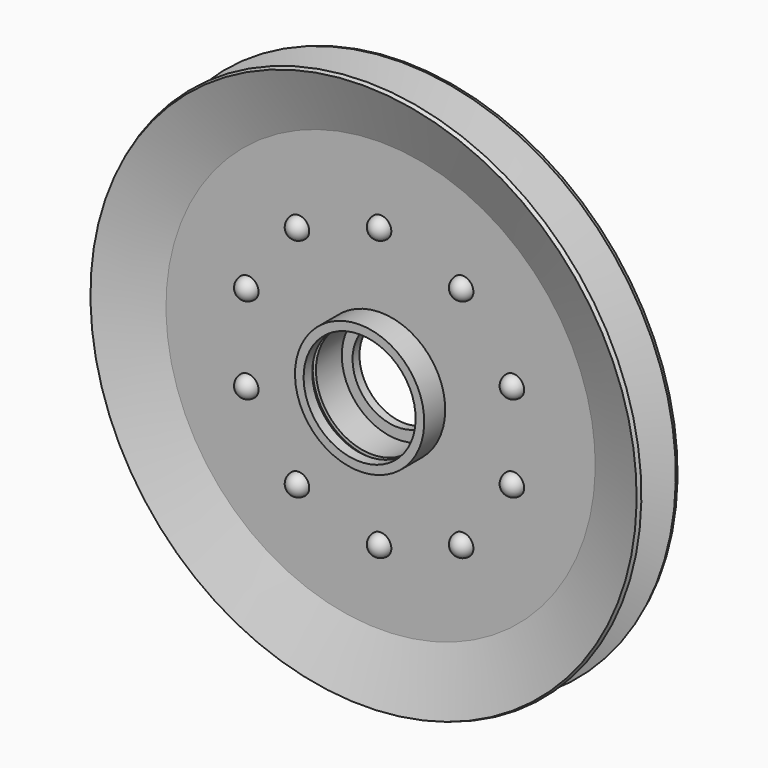
from build123d import *

# Parameters (mm, degrees)
F3_D     = 60
F4_R     = 3
F5_DEPTH = 2.001
F9_COUNT = 10


with BuildPart() as f1:
    # F0 (on Right) → F1 (revolve)
    with BuildSketch(Plane.YZ):
        Polygon((0, 100), (0, 0), (2, 0), (2, 99.6473460386), (11.8793852416, 126.7907339079), (10, 127.4747741945), align=None)
    revolve(axis=Axis((0, 1, 0), (0, 1, 0)))

    # F3 (through all)
    with Locations(Plane(origin=(0, 2, 0), x_dir=(-1, 0, 0), z_dir=(0, 1, 0))):
        with Locations((0, 0)):
            Hole(F3_D / 2)

    # F4 (on face) → F5 (cut, through all)
    with BuildSketch(Plane(origin=(0, 2, 0), x_dir=(-1, 0, 0), z_dir=(0, 1, 0))):
        with Locations((0, 64.8236730193)):
            Circle(F4_R)
        with Locations((-38.1023990002, 52.4434531104)):
            Circle(F4_R)
        with Locations((-61.6509766352, 20.0316166008)):
            Circle(F4_R)
        with Locations((-61.6509766352, -20.0316166008)):
            Circle(F4_R)
        with Locations((-38.1023990002, -52.4434531104)):
            Circle(F4_R)
        with Locations((0, -64.8236730193)):
            Circle(F4_R)
        with Locations((38.1023990002, -52.4434531104)):
            Circle(F4_R)
        with Locations((61.6509766352, -20.0316166008)):
            Circle(F4_R)
        with Locations((61.6509766352, 20.0316166008)):
            Circle(F4_R)
        with Locations((38.1023990002, 52.4434531104)):
            Circle(F4_R)
    extrude(amount=-F5_DEPTH, mode=Mode.SUBTRACT)


with BuildPart() as f6_1:
    # F6: instance of F1
    add(f1.part.mirror(Plane.XZ))


with BuildPart() as f8:
    # F7 (on Right) → F8 (revolve)
    with BuildSketch(Plane.YZ):
        with BuildLine():
            Line((2, 67.8236730193), (0, 67.8236730193))
            Line((0, 67.8236730193), (-2, 67.8236730193))
            Line((-2, 67.8236730193), (-2, 69.8236730193))
            ThreePointArc((-2, 69.8236730193), (-5.5355339059, 68.3592069252), (-7, 64.8236730193))
            Line((-7, 64.8236730193), (7, 64.8236730193))
            ThreePointArc((7, 64.8236730193), (5.5355339059, 68.3592069252), (2, 69.8236730193))
            Line((2, 69.8236730193), (2, 67.8236730193))
        make_face()
    revolve(axis=Axis((0, 0, 64.8236730193), (0, 1, 0)))


with BuildPart() as f9_1:
    # F9: instance of F8
    add(f8.part.rotate(Axis((0, 2, 0), (0, 1, 0)), 1 * 360 / F9_COUNT))


with BuildPart() as f9_2:
    # F9: instance of F8
    add(f8.part.rotate(Axis((0, 2, 0), (0, 1, 0)), 2 * 360 / F9_COUNT))


with BuildPart() as f9_3:
    # F9: instance of F8
    add(f8.part.rotate(Axis((0, 2, 0), (0, 1, 0)), 3 * 360 / F9_COUNT))


with BuildPart() as f9_4:
    # F9: instance of F8
    add(f8.part.rotate(Axis((0, 2, 0), (0, 1, 0)), 4 * 360 / F9_COUNT))


with BuildPart() as f9_5:
    # F9: instance of F8
    add(f8.part.rotate(Axis((0, 2, 0), (0, 1, 0)), 5 * 360 / F9_COUNT))


with BuildPart() as f9_6:
    # F9: instance of F8
    add(f8.part.rotate(Axis((0, 2, 0), (0, 1, 0)), 6 * 360 / F9_COUNT))


with BuildPart() as f9_7:
    # F9: instance of F8
    add(f8.part.rotate(Axis((0, 2, 0), (0, 1, 0)), 7 * 360 / F9_COUNT))


with BuildPart() as f9_8:
    # F9: instance of F8
    add(f8.part.rotate(Axis((0, 2, 0), (0, 1, 0)), 8 * 360 / F9_COUNT))


with BuildPart() as f9_9:
    # F9: instance of F8
    add(f8.part.rotate(Axis((0, 2, 0), (0, 1, 0)), 9 * 360 / F9_COUNT))


with BuildPart() as f12:
    # F10 (on Right) → F12 (revolve)
    with BuildSketch(Plane.YZ):
        Polygon((2, 35), (2, 30), (-14.15, 30), (-14.15, 26), (-9.15, 26), (-9.15, 27.5), (-7, 27.5), (-7, 26), (8, 26), (8, 21), (12, 21), (12, 35), align=None)
    revolve(axis=Axis((0, -0.6278147921, 0), (0, 1, 0)))


solid = Compound([f1.part, f6_1.part, f8.part, f9_1.part, f9_2.part, f9_3.part, f9_4.part, f9_5.part, f9_6.part, f9_7.part, f9_8.part, f9_9.part, f12.part])
